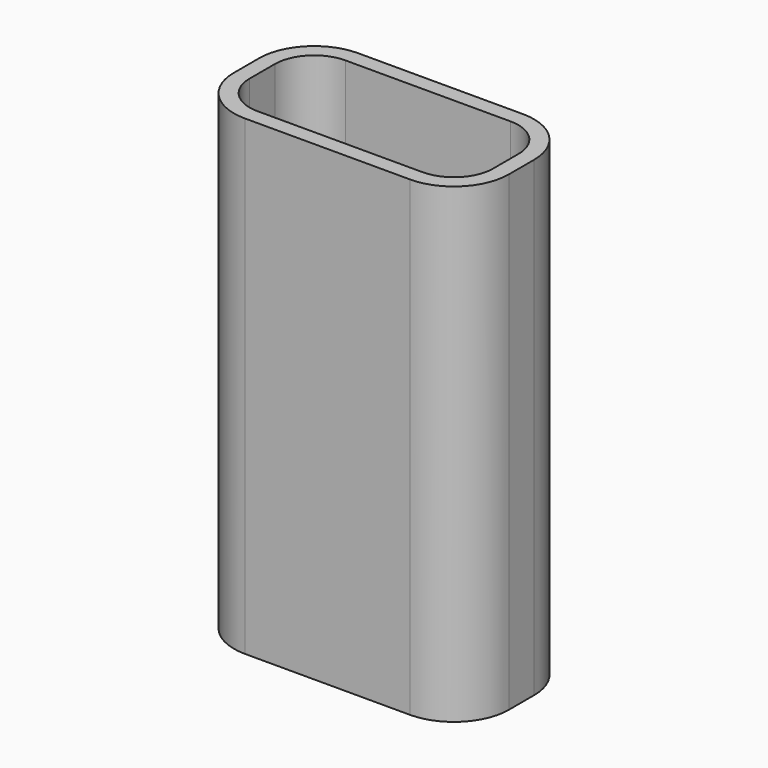
from build123d import *

# Parameters (mm, degrees)
F0_W     = 27
F0_H     = 10
F1_DEPTH = 2
F2_DEPTH = 60
F3_W     = 6
F3_H     = 3
F4_DEPTH = 25


with BuildPart() as f1:
    # F0 (on Top) → F1 (new body)
    with BuildSketch(Plane.XY):
        with BuildLine():
            Line((26, 16), (5, 16))
            ThreePointArc((5, 16), (0.0502525317, 13.9497474683), (-2, 9))
            Line((-2, 9), (-2, 5))
            ThreePointArc((-2, 5), (0.0502525317, 0.0502525317), (5, -2))
            Line((5, -2), (26, -2))
            ThreePointArc((26, -2), (30.9497474683, 0.0502525317), (33, 5))
            Line((33, 5), (33, 9))
            ThreePointArc((33, 9), (30.9497474683, 13.9497474683), (26, 16))
        make_face()
        with BuildLine():
            Line((26, 0), (5, 0))
            ThreePointArc((5, 0), (1.4644660941, 1.4644660941), (0, 5))
            Line((0, 5), (0, 9))
            ThreePointArc((0, 9), (1.4644660941, 12.5355339059), (5, 14))
            Line((5, 14), (26, 14))
            ThreePointArc((26, 14), (29.5355339059, 12.5355339059), (31, 9))
            Line((31, 9), (31, 5))
            ThreePointArc((31, 5), (29.5355339059, 1.4644660941), (26, 0))
        make_face(mode=Mode.SUBTRACT)
        with BuildLine():
            ThreePointArc((0, 5), (1.4644660941, 1.4644660941), (5, 0))
            Line((5, 0), (26, 0))
            ThreePointArc((26, 0), (29.5355339059, 1.4644660941), (31, 5))
            Line((31, 5), (31, 9))
            ThreePointArc((31, 9), (29.5355339059, 12.5355339059), (26, 14))
            Line((26, 14), (5, 14))
            ThreePointArc((5, 14), (1.4644660941, 12.5355339059), (0, 9))
            Line((0, 9), (0, 5))
        make_face()
        with Locations((15.5, 7)):
            Rectangle(F0_W, F0_H, mode=Mode.SUBTRACT)
    extrude(amount=F1_DEPTH)

    # F0 (on Top) → F2 (join)
    with BuildSketch(Plane.XY):
        with BuildLine():
            Line((26, 16), (5, 16))
            ThreePointArc((5, 16), (0.0502525317, 13.9497474683), (-2, 9))
            Line((-2, 9), (-2, 5))
            ThreePointArc((-2, 5), (0.0502525317, 0.0502525317), (5, -2))
            Line((5, -2), (26, -2))
            ThreePointArc((26, -2), (30.9497474683, 0.0502525317), (33, 5))
            Line((33, 5), (33, 9))
            ThreePointArc((33, 9), (30.9497474683, 13.9497474683), (26, 16))
        make_face()
        with BuildLine():
            Line((26, 0), (5, 0))
            ThreePointArc((5, 0), (1.4644660941, 1.4644660941), (0, 5))
            Line((0, 5), (0, 9))
            ThreePointArc((0, 9), (1.4644660941, 12.5355339059), (5, 14))
            Line((5, 14), (26, 14))
            ThreePointArc((26, 14), (29.5355339059, 12.5355339059), (31, 9))
            Line((31, 9), (31, 5))
            ThreePointArc((31, 5), (29.5355339059, 1.4644660941), (26, 0))
        make_face(mode=Mode.SUBTRACT)
    extrude(amount=F2_DEPTH)

    # F3 (on Front) → F4 (cut)
    with BuildSketch(Plane.XZ):
        with Locations((15.5, 26.5405690297)):
            Rectangle(F3_W, F3_H)
    extrude(amount=-F4_DEPTH, mode=Mode.SUBTRACT)


solid = f1.part
